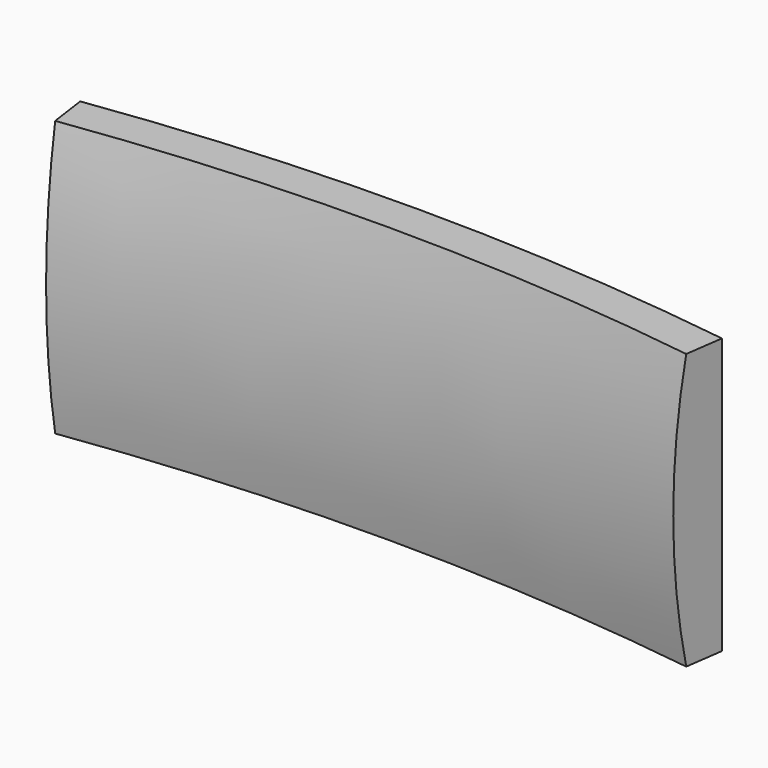
from build123d import *


with BuildPart() as f3:
    # F3: sweep along a path in F0
    with BuildLine(Plane.XY) as f3_path:
        ThreePointArc((36, 0), (18, 1.26), (0, 0))
    # F2 (on line) → F3 (sweep)
    with BuildSketch(Plane(origin=(0, 0, 0), x_dir=(0.139317345, -0.9902477858, 0), z_dir=(-0.9902477858, -0.139317345, 0))):
        with BuildLine():
            Line((-3, 7.9), (-3, -7.9))
            Line((-3, -7.9), (-0.8, -7.9))
            ThreePointArc((-0.8, -7.9), (0, 0), (-0.8, 7.9))
            Line((-0.8, 7.9), (-3, 7.9))
        make_face()
    sweep(path=f3_path.line)


solid = f3.part
